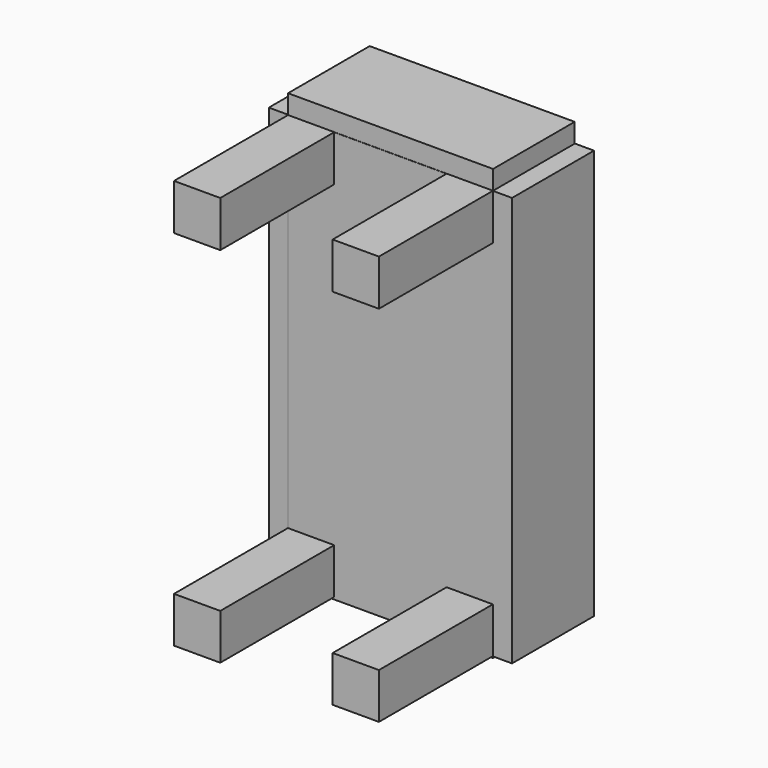
from build123d import *

# Parameters (mm, degrees)
F0_W           = 101.6
F0_H           = 203.2
F1_DEPTH       = 25.4
F2_W           = 22.9419407606
F2_H           = 22.7780664682
F2_W_2         = 22.94193331
F2_W_3         = 22.9362
F2_H_2         = 22.6314
F3_DEPTH       = 70.612
F4_W           = 50.8
F4_H           = 203.2
F5_DEPTH       = 9.525
F6_W           = 101.6606390476
F6_H           = 50.6004877388
F7_DEPTH       = 9.525
F8_W           = 50.696041435
F8_H           = 203.55078578
F9_DEPTH       = 9.525
F10_W          = 101.6
F10_H          = 50.8
F11_DEPTH      = 0.762
F11_DEPTH_BACK = 25.4
F12_DEPTH      = 25.4
F13_R          = 12.6564144883
F14_DEPTH      = 33.02


with BuildPart() as f1:
    # F0 (on Front) → F1 (new body)
    with BuildSketch(Plane.XZ):
        Rectangle(F0_W, F0_H)
    extrude(amount=F1_DEPTH)

    # F2 (on face) → F3 (join)
    with BuildSketch(Plane.XZ.offset(25.4)):
        with Locations((39.3290296197, 90.2109667659)):
            Rectangle(F2_W, F2_H)
        with Locations((-39.329033345, 90.2109667659)):
            Rectangle(F2_W_2, F2_H)
        with Locations((-39.3319, -89.9565626328)):
            Rectangle(F2_W_3, F2_H_2)
        with Locations((39.3319, -90.2023647373)):
            Rectangle(F2_W_3, F2_H_2)
    extrude(amount=F3_DEPTH)

    # F4 (on face) → F5 (join)
    with BuildSketch(Plane.YZ.offset(50.8)):
        Rectangle(F4_W, F4_H)
    extrude(amount=F5_DEPTH)

    # F6 (on face) → F7 (join)
    with BuildSketch(Plane.XY.offset(101.6)):
        Rectangle(F6_W, F6_H)
    extrude(amount=F7_DEPTH)

    # F8 (on face) → F9 (join)
    with BuildSketch(Plane(origin=(-50.8, 0, 0), x_dir=(0, -1, 0), z_dir=(-1, 0, 0))):
        Rectangle(F8_W, F8_H)
    extrude(amount=F9_DEPTH)

    # F10 (on face) → F11 (join, two sides)
    with BuildSketch(Plane(origin=(0, 0, -101.6), x_dir=(1, 0, 0), z_dir=(0, 0, -1))) as f11_sk:
        Rectangle(F10_W, F10_H)
    extrude(amount=F11_DEPTH)
    extrude(f11_sk.sketch, amount=-F11_DEPTH_BACK)

    # F2 (on face) → F12 (join)
    with BuildSketch(Plane.XZ.offset(25.4)):
        with Locations((39.3290296197, 90.2109667659)):
            Rectangle(F2_W, F2_H)
        with Locations((-39.329033345, 90.2109667659)):
            Rectangle(F2_W_2, F2_H)
        with Locations((-39.3319, -89.9565626328)):
            Rectangle(F2_W_3, F2_H_2)
        with Locations((39.3319, -90.2023647373)):
            Rectangle(F2_W_3, F2_H_2)
    extrude(amount=F12_DEPTH)

    # F13 (on face) → F14 (join)
    with BuildSketch(Plane.XZ.offset(25.4)):
        Circle(F13_R)
    extrude(amount=-F14_DEPTH)


solid = f1.part
